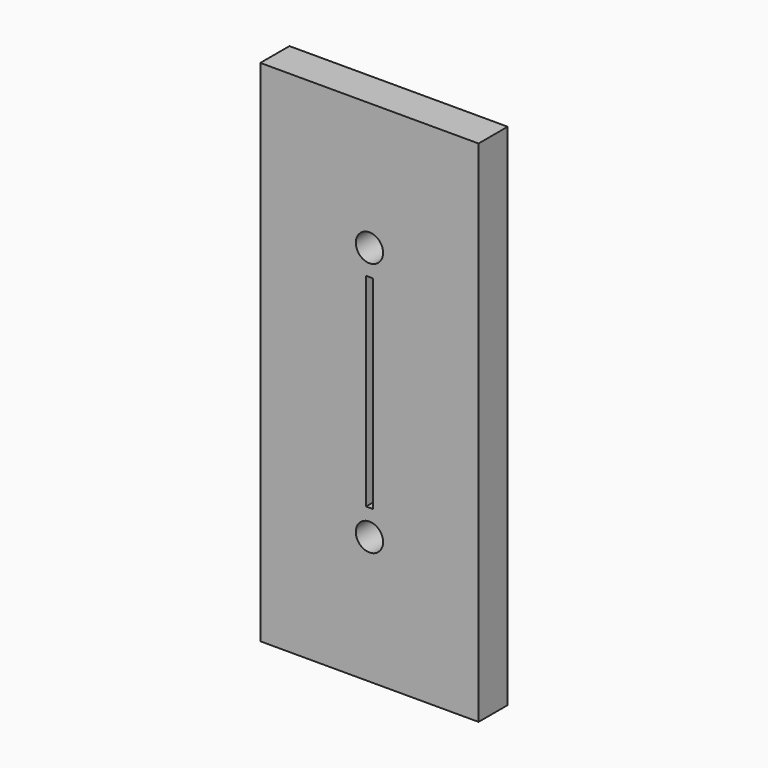
from build123d import *

# Parameters (mm, degrees)
F0_W     = 38.1
F0_H     = 88.9
F0_R     = 2.38125
F1_DEPTH = 6.35
F2_W     = 1.200806
F2_H     = 35.460464
F3_DEPTH = 2.54


with BuildPart() as f1:
    # F0 (on Front) → F1 (new body)
    with BuildSketch(Plane.XZ):
        with Locations((19.05, 44.45)):
            Rectangle(F0_W, F0_H)
        with Locations((19.05, 22.225)):
            Circle(F0_R, mode=Mode.SUBTRACT)
        with Locations((19.05, 66.675)):
            Circle(F0_R, mode=Mode.SUBTRACT)
    extrude(amount=F1_DEPTH)

    # F2 (on face) → F3 (cut)
    with BuildSketch(Plane.XZ.offset(6.35)):
        with Locations((19.05, 44.45)):
            Rectangle(F2_W, F2_H)
    extrude(amount=-F3_DEPTH, mode=Mode.SUBTRACT)


solid = f1.part
